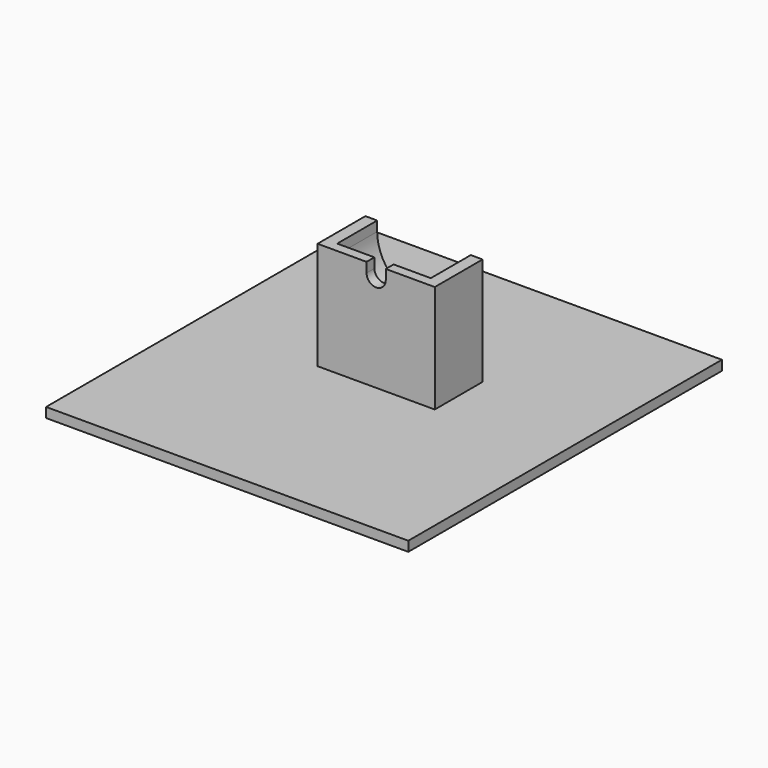
from build123d import *

# Parameters (mm, degrees)
F0_W     = 10
F0_H     = 2
F1_DEPTH = 2
F2_W     = 2.41
F2_H     = 2
F3_DEPTH = 10.2
F4_DEPTH = 40


with BuildPart() as f1:
    # F0 (on Front) → F1 (new body)
    with BuildSketch(Plane.XZ):
        with Locations((6.96, 1)):
            Rectangle(F0_W, F0_H)
        with Locations((-6.96, 1)):
            Rectangle(F0_W, F0_H)
        with BuildLine():
            ThreePointArc((1.96, 0), (0, -1.96), (-1.96, 0))
            Line((-1.96, 0), (-11.96, 0))
            Line((-11.96, 0), (-11.96, -20))
            Line((-11.96, -20), (11.96, -20))
            Line((11.96, -20), (11.96, 0))
            Line((11.96, 0), (1.96, 0))
        make_face()
    extrude(amount=F1_DEPTH)

    # F2 (on Front) → F3 (join)
    with BuildSketch(Plane.XZ):
        with BuildLine():
            ThreePointArc((9.55, 0), (0, -9.55), (-9.55, 0))
            Line((-9.55, 0), (-11.96, 0))
            Line((-11.96, 0), (-11.96, -20))
            Line((-11.96, -20), (11.96, -20))
            Line((11.96, -20), (11.96, 0))
            Line((11.96, 0), (9.55, 0))
        make_face()
        with Locations((-10.755, 1)):
            Rectangle(F2_W, F2_H)
        with Locations((10.755, 1)):
            Rectangle(F2_W, F2_H)
    extrude(amount=-F3_DEPTH)

    # F0 (on Front) → F4 (join, symmetric)
    with BuildSketch(Plane.XZ):
        Polygon((11.96, -20), (-11.96, -20), (-36.96, -20), (-36.96, -22), (36.96, -22), (36.96, -20), align=None)
    extrude(amount=F4_DEPTH, both=True)


solid = f1.part
